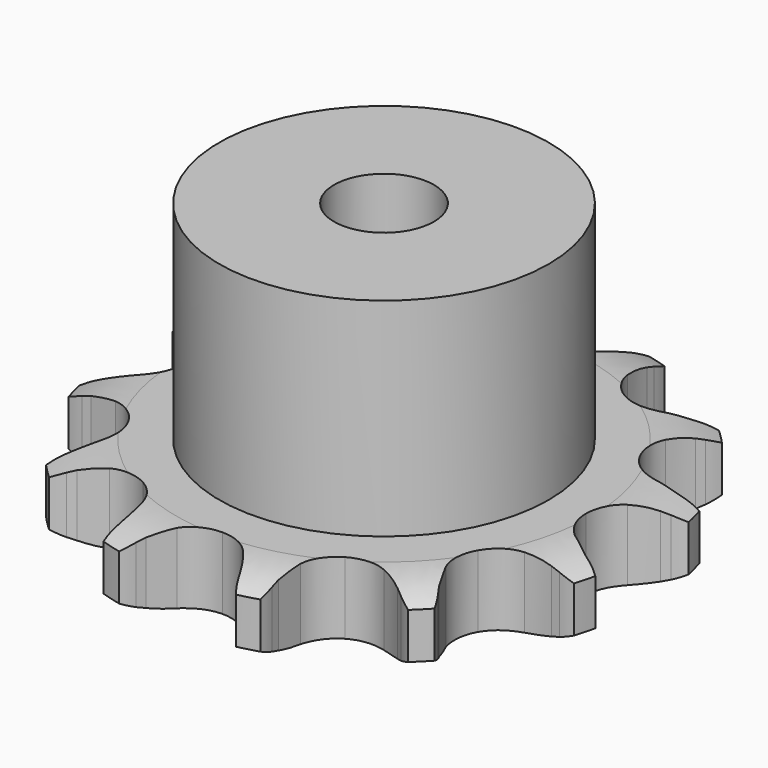
from build123d import *

# Parameters (mm, degrees)
PAD_DEPTH         = 7.2
SKETCH001_R       = 16.5
PAD001_DEPTH      = 28
SKETCH002_R       = 5
POCKET_DEPTH      = 0.001
POCKET_DEPTH_BACK = -28.001


with BuildPart() as part:
    # Sprocket → Pad (new body)
    with BuildSketch(Plane.XY):
        with BuildLine():
            ThreePointArc((-7.304066, 27.259147), (-6.046597, 26.096506), (-5.100713, 24.668826))
            Line((-5.100713, 24.668826), (-4.724087, 23.918901))
            ThreePointArc((-4.724087, 23.918901), (-4.077378, 22.798769), (-3.305003, 21.761289))
            ThreePointArc((-3.305003, 21.761289), (-1.823334, 20.624364), (0, 20.220141))
            ThreePointArc((0, 20.220141), (1.823334, 20.624364), (3.305003, 21.761289))
            ThreePointArc((3.305003, 21.761289), (4.077378, 22.798769), (4.724087, 23.918901))
            Line((4.724087, 23.918901), (5.100713, 24.668826))
            ThreePointArc((5.100713, 24.668826), (6.046597, 26.096506), (7.304066, 27.259147))
            ThreePointArc((7.304066, 27.259147), (7.811747, 25.623535), (7.917066, 23.914187))
            Line((7.917066, 23.914187), (7.868271, 23.076419))
            ThreePointArc((7.868271, 23.076419), (7.868271, 21.783002), (8.018428, 20.498331))
            ThreePointArc((8.018428, 20.498331), (8.733129, 18.77289), (10.11007, 17.511156))
            ThreePointArc((10.11007, 17.511156), (11.891235, 16.949557), (13.742861, 17.193328))
            Line((13.742861, 17.193328), (16.05063, 18.352333))
            ThreePointArc((16.05063, 18.352333), (16.396844, 18.589518), (16.751761, 18.813474))
            ThreePointArc((16.751761, 18.813474), (18.284759, 19.576939), (19.95508, 19.95508))
            ThreePointArc((19.95508, 19.95508), (19.576939, 18.284759), (18.813474, 16.751761))
            Line((18.813474, 16.751761), (18.352333, 16.05063))
            ThreePointArc((18.352333, 16.05063), (17.705624, 14.930498), (17.193328, 13.742861))
            ThreePointArc((17.193328, 13.742861), (16.949557, 11.891235), (17.511156, 10.11007))
            ThreePointArc((17.511156, 10.11007), (18.77289, 8.733129), (20.498331, 8.018428))
            Line((20.498331, 8.018428), (23.076419, 7.868271))
            ThreePointArc((23.076419, 7.868271), (23.494843, 7.900573), (23.914187, 7.917066))
            ThreePointArc((23.914187, 7.917066), (25.623535, 7.811747), (27.259147, 7.304066))
            ThreePointArc((27.259147, 7.304066), (26.096506, 6.046597), (24.668826, 5.100713))
            Line((24.668826, 5.100713), (23.918901, 4.724087))
            ThreePointArc((23.918901, 4.724087), (22.798769, 4.077378), (21.761289, 3.305003))
            ThreePointArc((21.761289, 3.305003), (20.624364, 1.823334), (20.220141, 0))
            ThreePointArc((20.220141, 0), (20.624364, -1.823334), (21.761289, -3.305003))
            Line((21.761289, -3.305003), (23.918901, -4.724087))
            ThreePointArc((23.918901, -4.724087), (24.297417, -4.905325), (24.668826, -5.100713))
            ThreePointArc((24.668826, -5.100713), (26.096506, -6.046597), (27.259147, -7.304066))
            ThreePointArc((27.259147, -7.304066), (25.623535, -7.811747), (23.914187, -7.917066))
            Line((23.914187, -7.917066), (23.076419, -7.868271))
            ThreePointArc((23.076419, -7.868271), (21.783002, -7.868271), (20.498331, -8.018428))
            ThreePointArc((20.498331, -8.018428), (18.77289, -8.733129), (17.511156, -10.11007))
            ThreePointArc((17.511156, -10.11007), (16.949557, -11.891235), (17.193328, -13.742861))
            Line((17.193328, -13.742861), (18.352333, -16.05063))
            ThreePointArc((18.352333, -16.05063), (18.589518, -16.396844), (18.813474, -16.751761))
            ThreePointArc((18.813474, -16.751761), (19.576939, -18.284759), (19.95508, -19.95508))
            ThreePointArc((19.95508, -19.95508), (18.284759, -19.576939), (16.751761, -18.813474))
            Line((16.751761, -18.813474), (16.05063, -18.352333))
            ThreePointArc((16.05063, -18.352333), (14.930498, -17.705624), (13.742861, -17.193328))
            ThreePointArc((13.742861, -17.193328), (11.891235, -16.949557), (10.11007, -17.511156))
            ThreePointArc((10.11007, -17.511156), (8.733129, -18.77289), (8.018428, -20.498331))
            Line((8.018428, -20.498331), (7.868271, -23.076419))
            ThreePointArc((7.868271, -23.076419), (7.900573, -23.494843), (7.917066, -23.914187))
            ThreePointArc((7.917066, -23.914187), (7.811747, -25.623535), (7.304066, -27.259147))
            ThreePointArc((7.304066, -27.259147), (6.046597, -26.096506), (5.100713, -24.668826))
            Line((5.100713, -24.668826), (4.724087, -23.918901))
            ThreePointArc((4.724087, -23.918901), (4.077378, -22.798769), (3.305003, -21.761289))
            ThreePointArc((3.305003, -21.761289), (1.823334, -20.624364), (0, -20.220141))
            ThreePointArc((0, -20.220141), (-1.823334, -20.624364), (-3.305003, -21.761289))
            Line((-3.305003, -21.761289), (-4.724087, -23.918901))
            ThreePointArc((-4.724087, -23.918901), (-4.905325, -24.297417), (-5.100713, -24.668826))
            ThreePointArc((-5.100713, -24.668826), (-6.046597, -26.096506), (-7.304066, -27.259147))
            ThreePointArc((-7.304066, -27.259147), (-7.811747, -25.623535), (-7.917066, -23.914187))
            Line((-7.917066, -23.914187), (-7.868271, -23.076419))
            ThreePointArc((-7.868271, -23.076419), (-7.868271, -21.783002), (-8.018428, -20.498331))
            ThreePointArc((-8.018428, -20.498331), (-8.733129, -18.77289), (-10.11007, -17.511156))
            ThreePointArc((-10.11007, -17.511156), (-11.891235, -16.949557), (-13.742861, -17.193328))
            Line((-13.742861, -17.193328), (-16.05063, -18.352333))
            ThreePointArc((-16.05063, -18.352333), (-16.396844, -18.589518), (-16.751761, -18.813474))
            ThreePointArc((-16.751761, -18.813474), (-18.284759, -19.576939), (-19.95508, -19.95508))
            ThreePointArc((-19.95508, -19.95508), (-19.576939, -18.284759), (-18.813474, -16.751761))
            Line((-18.813474, -16.751761), (-18.352333, -16.05063))
            ThreePointArc((-18.352333, -16.05063), (-17.705624, -14.930498), (-17.193328, -13.742861))
            ThreePointArc((-17.193328, -13.742861), (-16.949557, -11.891235), (-17.511156, -10.11007))
            ThreePointArc((-17.511156, -10.11007), (-18.77289, -8.733129), (-20.498331, -8.018428))
            Line((-20.498331, -8.018428), (-23.076419, -7.868271))
            ThreePointArc((-23.076419, -7.868271), (-23.494843, -7.900573), (-23.914187, -7.917066))
            ThreePointArc((-23.914187, -7.917066), (-25.623535, -7.811747), (-27.259147, -7.304066))
            ThreePointArc((-27.259147, -7.304066), (-26.096506, -6.046597), (-24.668826, -5.100713))
            Line((-24.668826, -5.100713), (-23.918901, -4.724087))
            ThreePointArc((-23.918901, -4.724087), (-22.798769, -4.077378), (-21.761289, -3.305003))
            ThreePointArc((-21.761289, -3.305003), (-20.624364, -1.823334), (-20.220141, 0))
            ThreePointArc((-20.220141, 0), (-20.624364, 1.823334), (-21.761289, 3.305003))
            Line((-21.761289, 3.305003), (-23.918901, 4.724087))
            ThreePointArc((-23.918901, 4.724087), (-24.297417, 4.905325), (-24.668826, 5.100713))
            ThreePointArc((-24.668826, 5.100713), (-26.096506, 6.046597), (-27.259147, 7.304066))
            ThreePointArc((-27.259147, 7.304066), (-25.623535, 7.811747), (-23.914187, 7.917066))
            Line((-23.914187, 7.917066), (-23.076419, 7.868271))
            ThreePointArc((-23.076419, 7.868271), (-21.783002, 7.868271), (-20.498331, 8.018428))
            ThreePointArc((-20.498331, 8.018428), (-18.77289, 8.733129), (-17.511156, 10.11007))
            ThreePointArc((-17.511156, 10.11007), (-16.949557, 11.891235), (-17.193328, 13.742861))
            Line((-17.193328, 13.742861), (-18.352333, 16.05063))
            ThreePointArc((-18.352333, 16.05063), (-18.589518, 16.396844), (-18.813474, 16.751761))
            ThreePointArc((-18.813474, 16.751761), (-19.576939, 18.284759), (-19.95508, 19.95508))
            ThreePointArc((-19.95508, 19.95508), (-18.284759, 19.576939), (-16.751761, 18.813474))
            Line((-16.751761, 18.813474), (-16.05063, 18.352333))
            ThreePointArc((-16.05063, 18.352333), (-14.930498, 17.705624), (-13.742861, 17.193328))
            ThreePointArc((-13.742861, 17.193328), (-11.891235, 16.949557), (-10.11007, 17.511156))
            ThreePointArc((-10.11007, 17.511156), (-8.733129, 18.77289), (-8.018428, 20.498331))
            Line((-8.018428, 20.498331), (-7.868271, 23.076419))
            ThreePointArc((-7.868271, 23.076419), (-7.900573, 23.494843), (-7.917066, 23.914187))
            ThreePointArc((-7.917066, 23.914187), (-7.811747, 25.623535), (-7.304066, 27.259147))
        make_face()
    extrude(amount=PAD_DEPTH)

    # Sketch → Groove (revolve, cut)
    with BuildSketch(Plane.XZ):
        with BuildLine():
            Line((20.833431, 0), (26.5, 0))
            Line((32.166569, 0), (26.5, 0))
            Line((32.166569, 7.2), (32.166569, 0))
            Line((26.5, 7.2), (32.166569, 7.2))
            Line((20.833431, 7.2), (26.5, 7.2))
            ThreePointArc((26.5, 5.9), (23.74032, 6.870833), (20.833431, 7.2))
            Line((26.5, 1.3), (26.5, 5.9))
            ThreePointArc((20.833431, 0), (23.74032, 0.329167), (26.5, 1.3))
        make_face()
    revolve(axis=Axis((0, 0, 0), (0, 0, 1)), mode=Mode.SUBTRACT)

    # Sketch001 → Pad001 (join)
    with BuildSketch(Plane.XY):
        Circle(SKETCH001_R)
    extrude(amount=PAD001_DEPTH)

    # Sketch002 → Pocket (cut, two sides)
    with BuildSketch(Plane.XY) as pocket_sk:
        Circle(SKETCH002_R)
    extrude(amount=-POCKET_DEPTH, mode=Mode.SUBTRACT)
    extrude(pocket_sk.sketch, amount=-POCKET_DEPTH_BACK, mode=Mode.SUBTRACT)


solid = part.part
